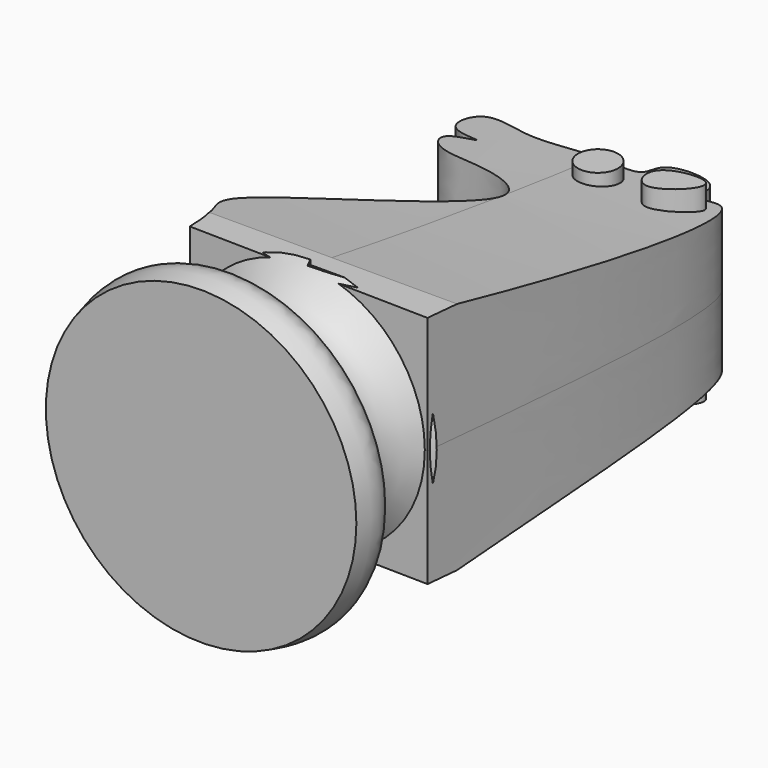
from build123d import *

# Parameters (mm, degrees)
F3_DEPTH  = 10.16
F7_DEPTH  = 25.4
F8_DEPTH  = 25.4
F4_R      = 1.7330683768
F9_DEPTH  = 7.62
F10_DEPTH = 8.255


with BuildPart() as f1:
    # F0 (on Top) → F1 (revolve)
    with BuildSketch(Plane.XY):
        with BuildLine():
            Line((0, 11.829585621), (0, 0))
            Line((0, 0), (13.462, 0))
            add(Edge.make_bspline(
                [(13.462, 0), (13.7759550178, 1.1243921321), (14.5173373494, 3.7881079744), (8.3433488596, 5.1711490719), (7.8791959074, 9.2360186577), (10.0451852066, 11.1066419508), (10.9691720765, 11.829585621)],
                knots=[0, 0, 0, 0, 0.2275024563, 0.5194286096, 0.7491727182, 1, 1, 1, 1], degree=3))
            Line((10.9691720765, 11.829585621), (0, 11.829585621))
        make_face()
    revolve(axis=Axis((0, 5.9147928105, 0), (0, 1, 0)))


with BuildPart() as f3:
    # F2 (on Top) → F3 (new body)
    with BuildSketch(Plane.XY):
        with BuildLine():
            add(Edge.make_bspline(
                [(-10.3706509753, 11.7324539016), (-10.4067970853, 12.7544893427), (-10.4803338516, 14.8337499149), (-13.4991100117, 18.2297476494), (3.989405176, 32.2512325311), (-3.3585187076, 35.8712955155), (-7.3349254568, 35.7099131879), (-9.2411975087, 36.8684365205), (-9.6357053447, 38.562916336), (-6.0710948904, 39.3972924566), (-10.694752003, 39.0387643946), (-10.310653352, 44.0909452311), (-5.2152664017, 41.821225501), (-0.4652575386, 43.4192263924), (4.383044262, 42.3142441302), (3.3845936007, 45.8252758367), (9.271447713, 45.7475638764), (8.4733707479, 41.6735464074), (13.9561041875, 45.0158635157), (12.0834129545, 26.3205827248), (10.5801592737, 11.3134373048)],
                knots=[0, 0, 0, 0, 0.0460557981, 0.0936973429, 0.2081331507, 0.2650117041, 0.3200871088, 0.3577032676, 0.3877020043, 0.4243288336, 0.4656823824, 0.5115061745, 0.5663102678, 0.6294447354, 0.68071906, 0.7184404176, 0.7718604445, 0.8137597688, 0.8505005481, 1, 1, 1, 1], degree=3))
            Line((-10.3706509753, 11.7324539016), (10.5801592737, 11.3134373048))
        make_face()
    extrude(amount=F3_DEPTH)

    # F6 (on Right) → F7 (cut)
    with BuildSketch(Plane.YZ):
        with BuildLine():
            add(Edge.make_bspline(
                [(76.5438601375, 4.7659394331), (68.9177770103, 4.6626593512), (51.3407056255, 4.3774638732), (19.7700576667, 9.0639721764), (7.5371740386, 11.3302990794)],
                knots=[0, 0, 0, 0, 0.4318756933, 1, 1, 1, 1], degree=3))
            Line((76.5438601375, 4.7659394331), (76.5438601375, 37.6942418516))
            Line((76.5438601375, 37.6942418516), (7.5371740386, 11.3302990794))
        make_face()
    extrude(amount=-F7_DEPTH, mode=Mode.SUBTRACT)


with BuildPart() as f8_tool:
    # F6 (on Right) → F8 (new body)
    with BuildSketch(Plane.YZ):
        with BuildLine():
            add(Edge.make_bspline(
                [(76.5438601375, 4.7659394331), (68.9177770103, 4.6626593512), (51.3407056255, 4.3774638732), (19.7700576667, 9.0639721764), (7.5371740386, 11.3302990794)],
                knots=[0, 0, 0, 0, 0.4318756933, 1, 1, 1, 1], degree=3))
            Line((76.5438601375, 4.7659394331), (76.5438601375, 37.6942418516))
            Line((76.5438601375, 37.6942418516), (7.5371740386, 11.3302990794))
        make_face()
    extrude(amount=F8_DEPTH)


with BuildPart() as f1_1:
    add(f1.part)

    # F8: cut by f8_tool
    add(f8_tool.part, mode=Mode.SUBTRACT)


with BuildPart() as f3_1:
    add(f3.part)

    # F8: cut by f8_tool
    add(f8_tool.part, mode=Mode.SUBTRACT)


with BuildPart() as f9:
    # F4 (on face) → F9 (new body)
    with BuildSketch(Plane.XY):
        with Locations((2.174184192, 40.294893086)):
            Circle(F4_R)
    extrude(amount=F9_DEPTH)


with BuildPart() as f10:
    # F5 (on face) → F10 (new body)
    with BuildSketch(Plane.XY):
        with BuildLine():
            add(Edge.make_bspline(
                [(6.8994455893, 40.7138544331), (7.5535209793, 41.6621398909), (10.9991183458, 42.1270908584), (10.724534298, 40.0593954223), (7.2950918745, 37.4578841062), (6.3937265495, 39.9806575898), (6.8994455893, 40.7138544331)],
                knots=[0, 0, 0, 0, 0.3011867515, 0.4777242468, 0.7671279532, 1, 1, 1, 1], degree=3))
        make_face()
    extrude(amount=F10_DEPTH)


with BuildPart() as f11_1:
    # F11: instance of F3
    add(f3_1.part.mirror(Plane.XY))


with BuildPart() as f11_2:
    # F11: instance of F10
    add(f10.part.mirror(Plane.XY))


with BuildPart() as f11_3:
    # F11: instance of F9
    add(f9.part.mirror(Plane.XY))


solid = Compound([f1_1.part, f3_1.part, f9.part, f10.part, f11_1.part, f11_2.part, f11_3.part])
